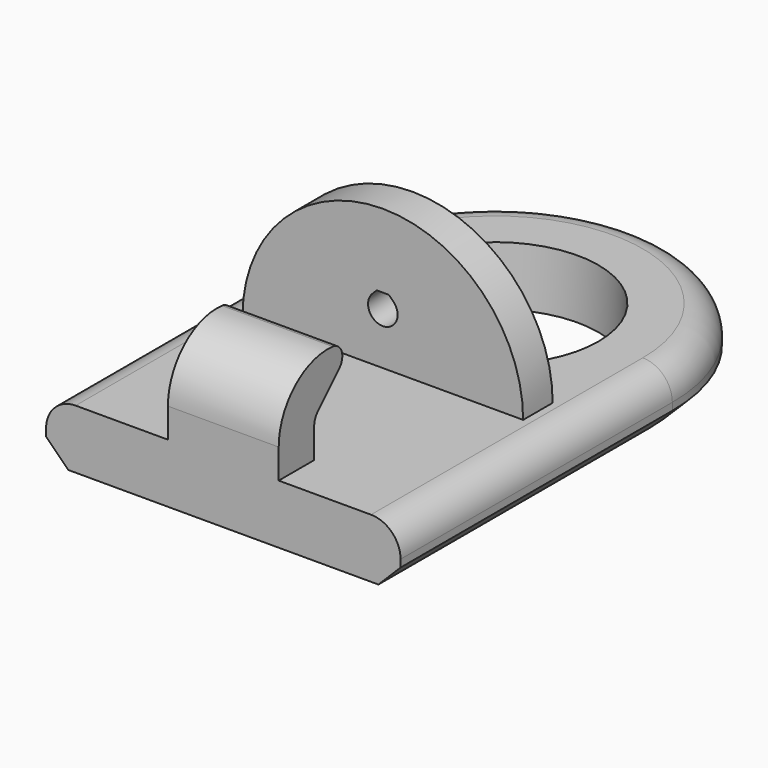
from build123d import *

# Parameters (mm, degrees)
PAD004_DEPTH          = 7.5
PAD003_DEPTH          = 10
PAD002_DEPTH          = 20
CLONE_ROLL_ANGLE      = 90
CLONE_PLACEMENT_ANGLE = 180
SKETCH_R              = 14
PAD_DEPTH             = 8
FILLET_R              = 4
CHAMFER_SIZE          = 3
PAD001_DEPTH          = 5


with BuildPart() as hookpad001:
    # Sketch004 → Pad004 (new body, symmetric)
    with BuildSketch(Plane.YZ):
        with BuildLine():
            Line((-40, 0), (-40, 12))
            ThreePointArc((-39.326335, 13.626354), (-39.82492, 12.880177), (-40, 12))
            Line((-39.326335, 13.626354), (-35.759843, 17.192846))
            ThreePointArc((-35.759843, 17.192846), (-35.336431, 19.068073), (-36.847811, 20.256133))
            ThreePointArc((-36.847811, 20.256133), (-43.259533, 18.162919), (-46, 12))
            Line((-46, 0), (-46, 12))
            Line((-40, 0), (-46, 0))
        make_face()
    extrude(amount=PAD004_DEPTH, both=True)


with BuildPart() as printbolthead001:
    # Sketch003 → Pad003 (new body)
    with BuildSketch(Plane.XY):
        with BuildLine():
            ThreePointArc((-3.535526, 3.535542), (-1.8e-05, -5), (3.535551, 3.535517))
            Line((2.071068, 5), (3.535551, 3.535517))
            Line((-2.071068, 5), (2.071068, 5))
            Line((-3.535526, 3.535542), (-2.071068, 5))
        make_face()
    extrude(amount=PAD003_DEPTH)


with BuildPart() as clone_of_printboltslot:
    # Sketch002 → Pad002 (new body)
    with BuildSketch(Plane.XY):
        with BuildLine():
            ThreePointArc((-1.414208, 1.414219), (1e-06, -2), (1.414206, 1.414221))
            Line((0.828427, 2), (1.414206, 1.414221))
            Line((-0.828427, 2), (0.828427, 2))
            Line((-1.414208, 1.414219), (-0.828427, 2))
        make_face()
    extrude(amount=-PAD002_DEPTH)

    # Fusion001: union PrintBoltHead001
    add(printbolthead001.part)


with BuildPart() as clone_of_printboltslot_1:
    # Clone roll: moved
    add(clone_of_printboltslot.part.rotate(Axis((0, 0, 0), (1, 0, 0)), CLONE_ROLL_ANGLE))


with BuildPart() as clone_of_printboltslot_2:
    # Clone placement: moved
    add(clone_of_printboltslot_1.part.moved(Location((0, -15, 15))).rotate(Axis((0, -15, 15), (0, 0, 1)), CLONE_PLACEMENT_ANGLE))


with BuildPart() as mainchamfer:
    # Sketch → Pad (new body)
    with BuildSketch(Plane.XY):
        with BuildLine():
            Line((-24, -1e-06), (-24, -46))
            Line((-24, -46), (24, -46))
            Line((24, -46), (24, -1e-06))
            ThreePointArc((24, -1e-06), (0, 24), (-24, -1e-06))
        make_face()
        Circle(SKETCH_R, mode=Mode.SUBTRACT)
    extrude(amount=PAD_DEPTH)

    # Fillet
    fillet_edges = [mainchamfer.edges().sort_by_distance(p)[0] for p in [
        (24, -23, 8),
    ]]
    fillet(fillet_edges, radius=FILLET_R)

    # Chamfer
    chamfer_edges = [mainchamfer.edges().sort_by_distance(p)[0] for p in [
        (24, -23, 0),
    ]]
    chamfer(chamfer_edges, length=CHAMFER_SIZE)


with BuildPart() as hook:
    # Sketch001 → Pad001 (new body)
    with BuildSketch(Plane(origin=(0, -14, 8), x_dir=(1, 0, 0), z_dir=(0, -1, 0))):
        with BuildLine():
            ThreePointArc((19, 0), (0, 19), (-19, 0))
            Line((-19, 0), (19, 0))
        make_face()
    extrude(amount=PAD001_DEPTH)

    # Fusion: union MainChamfer
    add(mainchamfer.part)

    # Cut: cut Clone of PrintBoltSlot
    add(clone_of_printboltslot_2.part, mode=Mode.SUBTRACT)

    # Fusion002: union HookPad001
    add(hookpad001.part)


solid = hook.part
